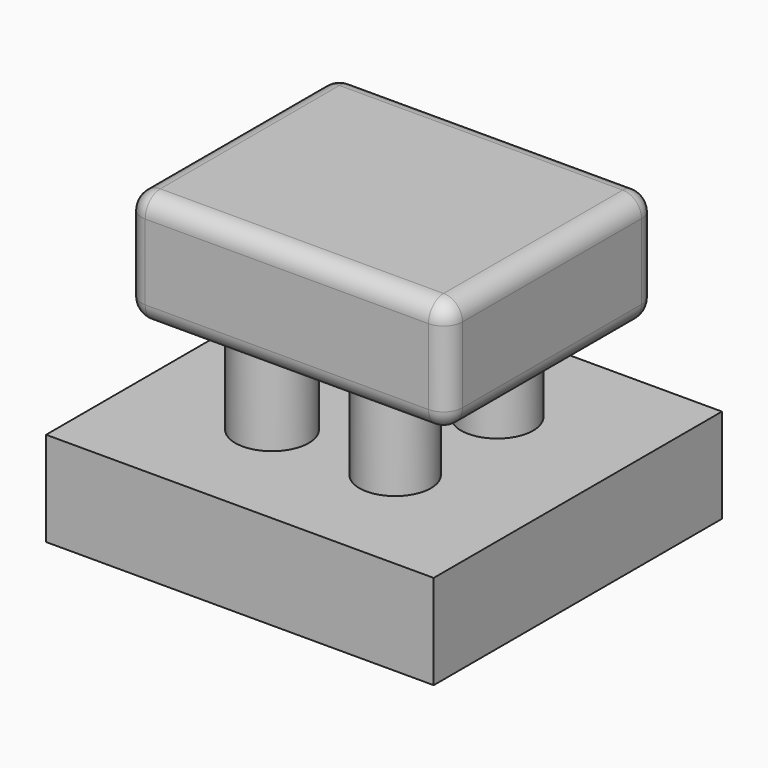
from build123d import *

# Parameters (mm, degrees)
F0_W     = 102.589286
F0_H     = 95.357146
F1_DEPTH = 25
F2_R     = 9.568015
F2_R_2   = 9.516545
F2_R_3   = 9.720787
F2_R_4   = 9.466873
F3_DEPTH = 25
F4_W     = 84.966198
F4_H     = 69.23151
F5_DEPTH = 30
F6_R     = 5


with BuildPart() as f1:
    # F0 (on Top) → F1 (new body)
    with BuildSketch(Plane.XY):
        with Locations((-1.875002, -0.13393)):
            Rectangle(F0_W, F0_H)
    extrude(amount=F1_DEPTH)

    # F2 (on face) → F3 (join)
    with BuildSketch(Plane.XY.offset(25)):
        with Locations((14.719443, 16.544643)):
            Circle(F2_R)
        with Locations((-18.169645, 16.544643)):
            Circle(F2_R_2)
        with Locations((-18.169645, -16.812503)):
            Circle(F2_R_3)
        with Locations((14.419641, -16.812503)):
            Circle(F2_R_4)
    extrude(amount=F3_DEPTH)

    # F4 (on face) → F5 (join)
    with BuildSketch(Plane.XY.offset(50)):
        Rectangle(F4_W, F4_H)
    extrude(amount=F5_DEPTH)

    # F6
    f6_edges = [f1.edges().sort_by_distance(p)[0] for p in [
        (42.483099, 0, 80),
        (0, -34.615755, 80),
        (-42.483099, 0, 80),
        (0, 34.615755, 80),
        (42.483099, -34.615755, 65),
        (42.483099, 34.615755, 65),
        (-42.483099, 34.615755, 65),
        (-42.483099, -34.615755, 65),
        (0, -34.615755, 50),
        (-42.483099, 0, 50),
        (0, 34.615755, 50),
        (42.483099, 0, 50),
    ]]
    fillet(f6_edges, radius=F6_R)


solid = f1.part
